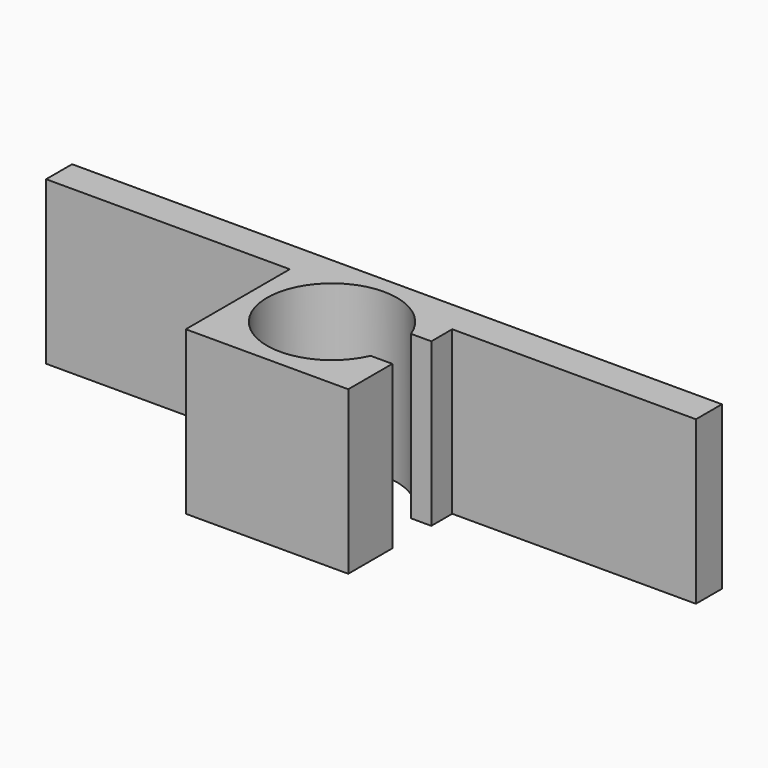
from build123d import *

# Parameters (mm, degrees)
F0_W     = 12.7
F0_H     = 12.7
F1_DEPTH = 12.7
F3_DEPTH = 38.1
F4_W     = 19.05
F4_H     = 12.7
F5_DEPTH = 2.54


with BuildPart() as f1:
    # F0 (on Front) → F1 (new body)
    with BuildSketch(Plane.XZ):
        with Locations((-32.274292, 11.265401)):
            Rectangle(F0_W, F0_H)
    extrude(amount=-F1_DEPTH)

    # F2 (on face) → F3 (cut)
    with BuildSketch(Plane.XY.offset(17.615401)):
        with BuildLine():
            Line((-25.924292, 8.11507), (-27.510793, 8.11507))
            ThreePointArc((-27.510793, 8.11507), (-37.352049, 6.500956), (-27.62406, 4.30507))
            Line((-27.62406, 4.30507), (-25.924292, 4.30507))
            Line((-25.924292, 4.30507), (-25.924292, 8.11507))
        make_face()
    extrude(amount=-F3_DEPTH, mode=Mode.SUBTRACT)

    # F4 (on face) → F5 (join)
    with BuildSketch(Plane(origin=(0, 12.7, 0), x_dir=(-1, 0, 0), z_dir=(0, 1, 0))):
        with Locations((48.149292, 11.265401)):
            Rectangle(F4_W, F4_H)
        with Locations((16.399292, 11.265401)):
            Rectangle(F4_W, F4_H)
    extrude(amount=-F5_DEPTH)


solid = f1.part
